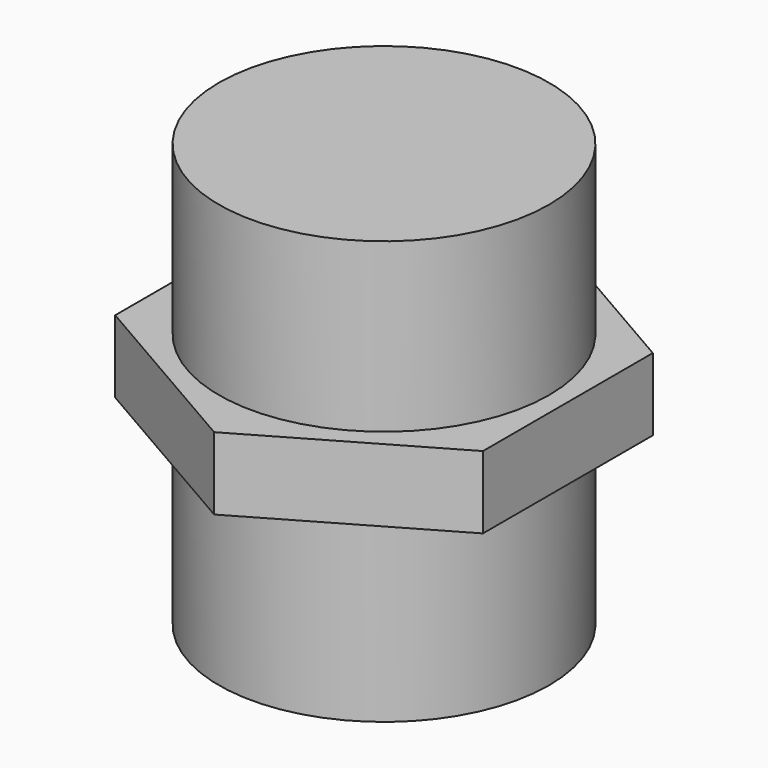
from build123d import *

# Parameters (mm, degrees)
EXTRUDE_DEPTH     = 4.83
CYLINDER002_R     = 11
CYLINDER002_DEPTH = 28.19


with BuildPart() as extrude_body:
    # Sketch → Extrude (new body)
    with BuildSketch(Plane.XY):
        Polygon((12.25, -7.072541), (12.25, 7.072541), (0, 14.145082), (-12.25, 7.072541), (-12.25, -7.072541), (0, -14.145082), align=None)
    extrude(amount=EXTRUDE_DEPTH)


with BuildPart() as extrude_body_1:
    # Extrude placement: moved
    add(extrude_body.part.moved(Location((0, 0, 12.19))))


with BuildPart() as powerplug:
    # Cylinder002 → Cylinder002 (new body)
    with BuildSketch(Plane.XY):
        Circle(CYLINDER002_R)
    extrude(amount=CYLINDER002_DEPTH)

    # Fusion: union Extrude body
    add(extrude_body_1.part)


with BuildPart() as powerplug_1:
    # Fusion placement: moved
    add(powerplug.part.moved(Location((68.75, 68.75, -17))))


solid = powerplug_1.part
